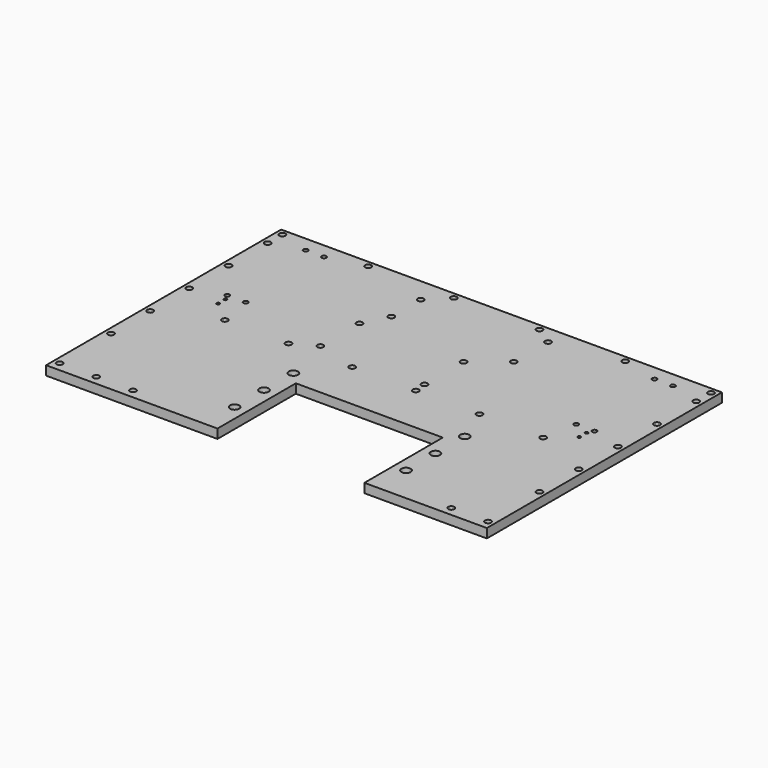
from build123d import *

# Parameters (mm, degrees)
F1_DEPTH  = 19.05
F2_R      = 9.525
F3_DEPTH  = 19.05
F4_R      = 6.35
F5_DEPTH  = 19.05
F6_R      = 6.35
F7_DEPTH  = 19.05
F8_DEPTH  = 19.05
F9_R      = 4.7625
F10_DEPTH = 19.05
F11_R     = 3.175
F12_DEPTH = 19.05


with BuildPart() as f1:
    # F0 (on Top) → F1 (new body)
    with BuildSketch(Plane.XY):
        Polygon((434.815569, 321.845666), (-479.584431, 321.845666), (-479.584431, -287.754334), (-123.984431, -287.754334), (-123.984431, -84.554334), (180.815569, -84.554334), (180.815569, -287.754334), (434.815569, -287.754334), align=None)
    extrude(amount=F1_DEPTH)

    # F2 (on face) → F3 (cut)
    with BuildSketch(Plane.XY.offset(19.05)):
        with Locations((-149.384431, -59.154334)):
            Circle(F2_R)
        with Locations((-149.384431, -135.354334)):
            Circle(F2_R)
        with Locations((-149.384431, -211.554334)):
            Circle(F2_R)
        with Locations((206.215569, -211.554334)):
            Circle(F2_R)
        with Locations((206.215569, -135.354334)):
            Circle(F2_R)
        with Locations((206.215569, -59.154334)):
            Circle(F2_R)
    extrude(amount=-F3_DEPTH, mode=Mode.SUBTRACT)

    # F4 (on face) → F5 (cut)
    with BuildSketch(Plane.XY.offset(19.05)):
        with Locations((345.915569, -268.704334)):
            Circle(F4_R)
        with Locations((422.115569, -268.704334)):
            Circle(F4_R)
        with Locations((-314.484431, -268.704334)):
            Circle(F4_R)
        with Locations((-390.684431, -268.704334)):
            Circle(F4_R)
        with Locations((-466.884431, -268.704334)):
            Circle(F4_R)
    extrude(amount=-F5_DEPTH, mode=Mode.SUBTRACT)

    # F6 (on face) → F7 (cut)
    with BuildSketch(Plane.XY.offset(19.05)):
        with Locations((-466.884431, -135.354334)):
            Circle(F6_R)
        with Locations((-466.884431, -33.754334)):
            Circle(F6_R)
        with Locations((-466.884431, 169.445666)):
            Circle(F6_R)
        with Locations((-466.884431, 67.845666)):
            Circle(F6_R)
        with Locations((422.115569, -33.754334)):
            Circle(F6_R)
        with Locations((422.115569, 67.845666)):
            Circle(F6_R)
        with Locations((422.115569, 169.445666)):
            Circle(F6_R)
        with Locations((422.115569, 271.045666)):
            Circle(F6_R)
        with Locations((422.115569, -135.354334)):
            Circle(F6_R)
        with Locations((-466.884431, 271.045666)):
            Circle(F6_R)
        with Locations((-466.884431, 309.145666)):
            Circle(F6_R)
        with Locations((422.115569, 309.145666)):
            Circle(F6_R)
        with Locations((-289.084431, 309.145666)):
            Circle(F6_R)
        with Locations((-111.284431, 309.145666)):
            Circle(F6_R)
        with Locations((66.515569, 309.145666)):
            Circle(F6_R)
        with Locations((244.315569, 309.145666)):
            Circle(F6_R)
        with Locations((-149.384431, 271.045666)):
            Circle(F6_R)
        with Locations((104.615569, 283.745666)):
            Circle(F6_R)
        with Locations((-149.384431, 194.845666)):
            Circle(F6_R)
        with Locations((104.615569, 194.845666)):
            Circle(F6_R)
        with Locations((-352.584431, 17.045666)):
            Circle(F6_R)
        with Locations((-220.504431, 17.045666)):
            Circle(F6_R)
        with Locations((-88.424431, 17.045666)):
            Circle(F6_R)
        with Locations((43.655569, 17.045666)):
            Circle(F6_R)
        with Locations((175.735569, 17.045666)):
            Circle(F6_R)
        with Locations((307.815569, 17.045666)):
            Circle(F6_R)
        with Locations((-174.784431, 144.045666)):
            Circle(F6_R)
        with Locations((41.115569, 144.045666)):
            Circle(F6_R)
        with Locations((-174.784431, 42.445666)):
            Circle(F6_R)
        with Locations((41.115569, 42.445666)):
            Circle(F6_R)
    extrude(amount=-F7_DEPTH, mode=Mode.SUBTRACT)

    # F4 (on face) → F8 (cut)
    with BuildSketch(Plane.XY.offset(19.05)):
        with Locations((-466.884431, -268.704334)):
            Circle(F4_R)
        with Locations((-390.684431, -268.704334)):
            Circle(F4_R)
        with Locations((-314.484431, -268.704334)):
            Circle(F4_R)
        with Locations((345.915569, -268.704334)):
            Circle(F4_R)
        with Locations((422.115569, -268.704334)):
            Circle(F4_R)
    extrude(amount=-F8_DEPTH, mode=Mode.SUBTRACT)

    # F9 (on face) → F10 (cut)
    with BuildSketch(Plane.XY.offset(19.05)):
        with Locations((-403.384431, 290.095666)):
            Circle(F9_R)
        with Locations((-365.284431, 290.095666)):
            Circle(F9_R)
        with Locations((320.515569, 290.095666)):
            Circle(F9_R)
        with Locations((358.615569, 290.095666)):
            Circle(F9_R)
        with Locations((-403.384431, 86.895666)):
            Circle(F9_R)
        with Locations((-365.284431, 86.895666)):
            Circle(F9_R)
        with Locations((320.515569, 86.895666)):
            Circle(F9_R)
        with Locations((358.615569, 86.895666)):
            Circle(F9_R)
    extrude(amount=-F10_DEPTH, mode=Mode.SUBTRACT)

    # F11 (on face) → F12 (cut)
    with BuildSketch(Plane.XY.offset(19.05)):
        with Locations((-397.034431, 74.195666)):
            Circle(F11_R)
        with Locations((-397.034431, 55.145666)):
            Circle(F11_R)
        with Locations((352.265569, 74.195666)):
            Circle(F11_R)
        with Locations((352.265569, 55.145666)):
            Circle(F11_R)
    extrude(amount=-F12_DEPTH, mode=Mode.SUBTRACT)


solid = f1.part
